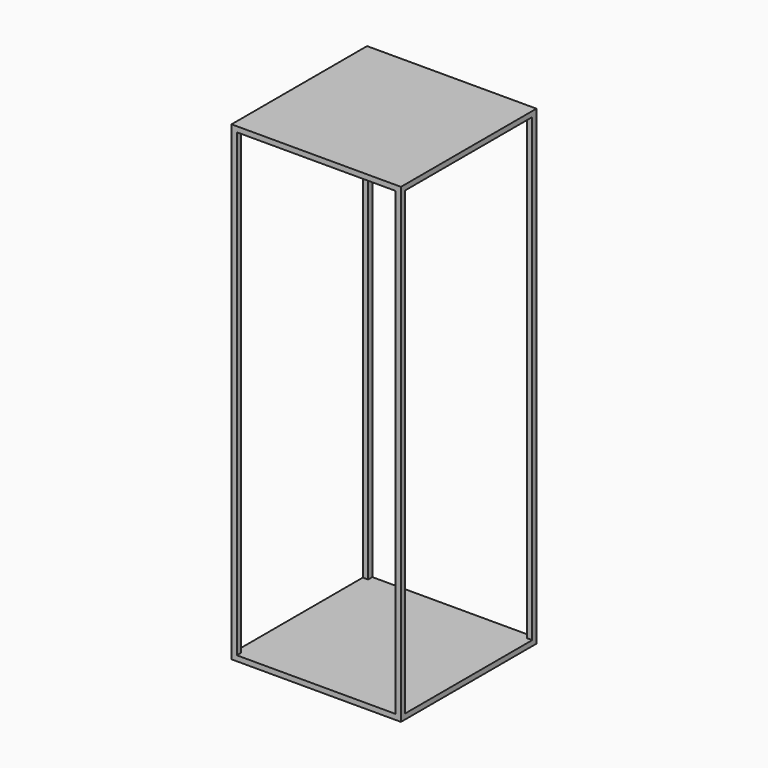
from build123d import *

# Parameters (mm, degrees)
F0_W     = 800
F0_H     = 2225
F1_DEPTH = 800
F2_W     = 750
F2_H     = 2175
F3_DEPTH = 800
F4_W     = 750
F4_H     = 2175
F5_DEPTH = 800


with BuildPart() as f1:
    # F0 (on Front) → F1 (new body)
    with BuildSketch(Plane.XZ):
        Rectangle(F0_W, F0_H)
    extrude(amount=F1_DEPTH)

    # F2 (on face) → F3 (cut, through all)
    with BuildSketch(Plane.XZ.offset(800)):
        Rectangle(F2_W, F2_H)
    extrude(amount=-F3_DEPTH, mode=Mode.SUBTRACT)

    # F4 (on face) → F5 (cut, through all)
    with BuildSketch(Plane.YZ.offset(400)):
        with Locations((-400, 0)):
            Rectangle(F4_W, F4_H)
    extrude(amount=-F5_DEPTH, mode=Mode.SUBTRACT)


solid = f1.part
